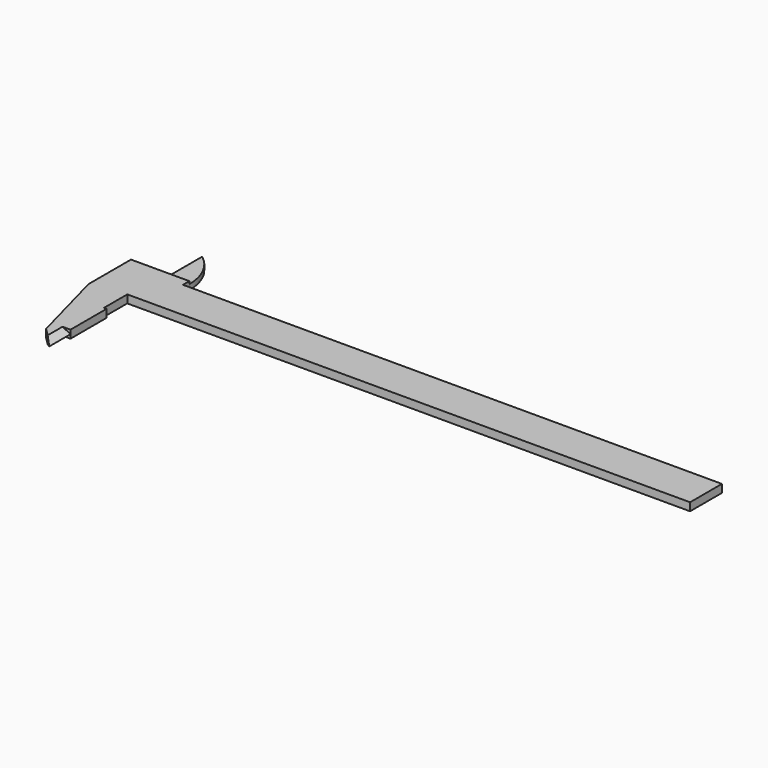
from build123d import *

# Parameters (mm, degrees)
F1_DEPTH = 3
F2_W     = 16
F2_H     = 1
F3_DEPTH = 10
F6_DEPTH = 10


with BuildPart() as f1:
    # F0 (on Top) → F1 (new body)
    with BuildSketch(Plane.XY):
        Polygon((0, -15), (0, 0), (-203, 0), (-203, 3), (-211, 3), (-225, 3), (-225, -17), (-216.947441, -47.052559), (-211, -53), (-211, -26), (-212, -26), (-212, -15), align=None)
        with BuildLine():
            Line((-211, 3), (-203, 3))
            ThreePointArc((-203, 3), (-205.111456, 11.944272), (-211, 19))
            Line((-211, 19), (-211, 3))
        make_face()
    extrude(amount=F1_DEPTH)

    # F2 (on face) → F3 (cut)
    with BuildSketch(Plane(origin=(-211, 0, 0), x_dir=(0, -1, 0), z_dir=(-1, 0, 0))):
        with Locations((-11, 2.5)):
            Rectangle(F2_W, F2_H)
    extrude(amount=-F3_DEPTH, mode=Mode.SUBTRACT)

    # F5 (on offset) → F6 (cut)
    with BuildSketch(Plane.XZ.offset(53)):
        Polygon((-214, 3), (-211, 1.5), (-214, 0), (-206, 0), (-206, 3), align=None)
    extrude(amount=-F6_DEPTH, mode=Mode.SUBTRACT)


solid = f1.part
